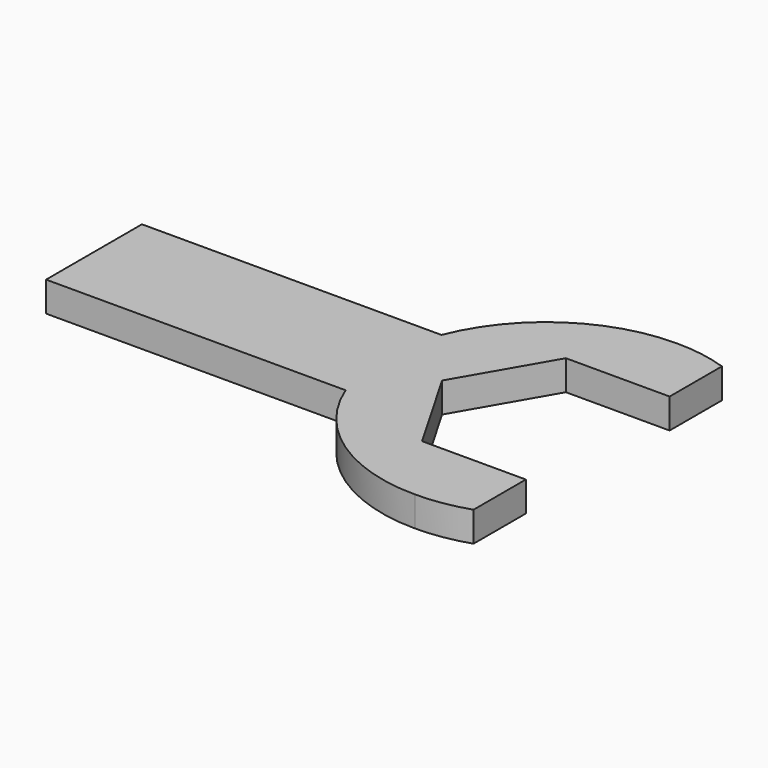
from build123d import *

# Parameters (mm, degrees)
F1_DEPTH = 5


with BuildPart() as f1:
    # F0 (on Top) → F1 (new body)
    with BuildSketch(Plane.XY):
        with BuildLine():
            Line((8.660254, -25.911584), (8.660254, -15))
            Line((8.660254, -15), (0, -15))
            Line((0, -15), (-8.660254, -15))
            Line((-8.660254, -15), (-17.320508, 0))
            Line((-17.320508, 0), (-8.660254, 15))
            Line((-8.660254, 15), (0, 15))
            Line((0, 15), (8.660254, 15))
            Line((8.660254, 15), (8.660254, 25.911584))
            ThreePointArc((8.660254, 25.911584), (4.387057, 26.965977), (0, 27.320508))
            ThreePointArc((0, 27.320508), (-15.38189, 22.57892), (-25.424598, 10))
            Line((-25.424598, 10), (-75.424598, 10))
            Line((-75.424598, 10), (-75.424598, -10))
            Line((-75.424598, -10), (-25.424598, -10))
            ThreePointArc((-25.424598, -10), (-15.38189, -22.57892), (0, -27.320508))
            ThreePointArc((0, -27.320508), (4.387057, -26.965977), (8.660254, -25.911584))
        make_face()
    extrude(amount=F1_DEPTH)


solid = f1.part
